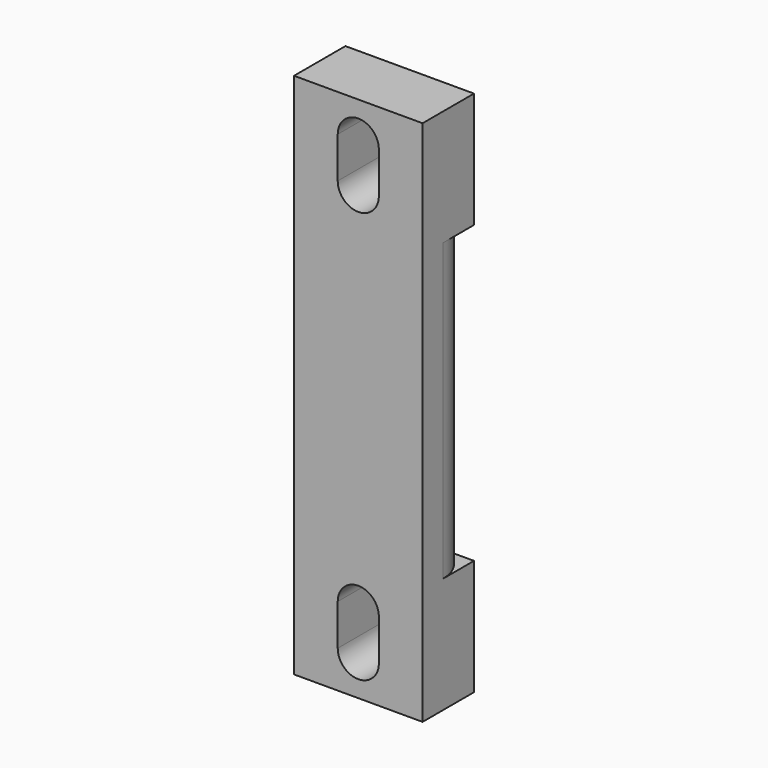
from build123d import *

# Parameters (mm, degrees)
F0_W     = 10
F0_H     = 41
F1_DEPTH = 5
F4_DEPTH = 23


with BuildPart() as f1:
    # F0 (on Front) → F1 (new body)
    with BuildSketch(Plane.XZ):
        with Locations((5, 20.5)):
            Rectangle(F0_W, F0_H)
        with BuildLine():
            ThreePointArc((3.4, 6.1), (5, 7.7), (6.6, 6.1))
            Line((6.6, 6.1), (6.6, 2.9))
            ThreePointArc((6.6, 2.9), (5, 1.3), (3.4, 2.9))
            Line((3.4, 2.9), (3.4, 6.1))
        make_face(mode=Mode.SUBTRACT)
        with BuildLine():
            ThreePointArc((6.6, 34.9), (5, 33.3), (3.4, 34.9))
            Line((3.4, 34.9), (3.4, 38.1))
            ThreePointArc((3.4, 38.1), (5, 39.7), (6.6, 38.1))
            Line((6.6, 38.1), (6.6, 34.9))
        make_face(mode=Mode.SUBTRACT)
    extrude(amount=F1_DEPTH)

    # F3 (on offset) → F4 (cut)
    with BuildSketch(Plane.XY.offset(9)):
        with BuildLine():
            Line((10, 0), (7, 0))
            ThreePointArc((7, 0), (9.12132, -0.87868), (10, -3))
            Line((10, -3), (10, -2.5))
            Line((10, -2.5), (10, 0))
        make_face()
        with BuildLine():
            ThreePointArc((0, -3), (0.87868, -0.87868), (3, 0))
            Line((3, 0), (0, 0))
            Line((0, 0), (0, -3))
        make_face()
    extrude(amount=F4_DEPTH, mode=Mode.SUBTRACT)


solid = f1.part
